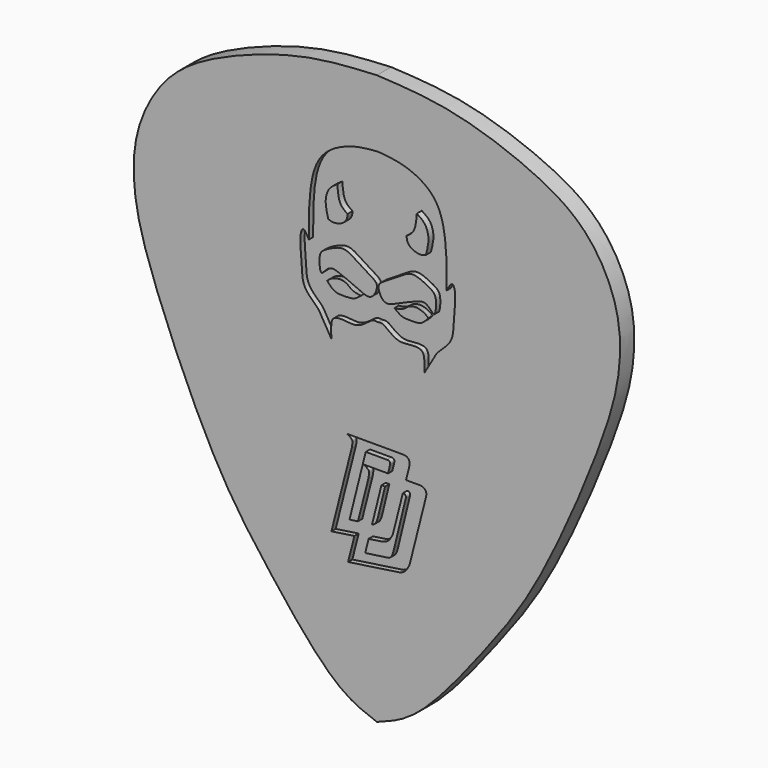
from build123d import *

# Parameters (mm, degrees)
F1_DEPTH      = 1
F3_DEPTH      = 1.0010001
F3_DEPTH_BACK = 0.2
F5_DEPTH      = 0.3
F7_DEPTH      = 0.35
F9_DEPTH      = 0.3
F11_DEPTH     = 0.1
F12_DEPTH     = 0.2
F13_DEPTH     = 0.7


with BuildPart() as f1:
    # F0 (on Front) → F1 (new body)
    with BuildSketch(Plane.XZ):
        with BuildLine():
            add(Edge.make_bspline(
                [(-31.5107270893, -10.9064727212), (-32.2026917269, -10.6557093193), (-33.9526112334, -10.0215500795), (-37.6876847294, -5.2704479403), (-40.6951073366, -1.2266223998), (-44.2603450301, 7.045510846), (-45.2461823302, 10.7550382715), (-45.2076523044, 14.0799642844), (-43.378113236, 17.5015502148), (-39.976243951, 19.4084566722), (-35.5394864317, 20.8901094743), (-32.8207065362, 21.0300839203), (-31.5107270893, 21.0975272788)],
                knots=[0, 0, 0, 0, 0.074230218, 0.1877218854, 0.2997178952, 0.440778318, 0.5345896143, 0.6183231272, 0.709077556, 0.8022549097, 0.9047212301, 1, 1, 1, 1], degree=3))
            add(Edge.make_bspline(
                [(-31.5107270893, -10.9064727212), (-30.8187624518, -10.6557093193), (-29.0688429452, -10.0215500795), (-25.3337694493, -5.2704479403), (-22.326346842, -1.2266223998), (-18.7611091486, 7.045510846), (-17.7752718485, 10.7550382715), (-17.8138018743, 14.0799642844), (-19.6433409427, 17.5015502148), (-23.0452102277, 19.4084566722), (-27.481967747, 20.8901094743), (-30.2007476424, 21.0300839203), (-31.5107270893, 21.0975272788)],
                knots=[0, 0, 0, 0, 0.074230218, 0.1877218854, 0.2997178952, 0.440778318, 0.5345896143, 0.6183231272, 0.709077556, 0.8022549097, 0.9047212301, 1, 1, 1, 1], degree=3))
        make_face()
        with BuildLine():
            add(Edge.make_bspline(
                [(-31.5107270893, -10.9064727212), (-32.2026917269, -10.6557093193), (-33.9526112334, -10.0215500795), (-37.6876847294, -5.2704479403), (-40.6951073366, -1.2266223998), (-44.2603450301, 7.045510846), (-45.2461823302, 10.7550382715), (-45.2076523044, 14.0799642844), (-43.378113236, 17.5015502148), (-39.976243951, 19.4084566722), (-35.5394864317, 20.8901094743), (-32.8207065362, 21.0300839203), (-31.5107270893, 21.0975272788)],
                knots=[0, 0, 0, 0, 0.074230218, 0.1877218854, 0.2997178952, 0.440778318, 0.5345896143, 0.6183231272, 0.709077556, 0.8022549097, 0.9047212301, 1, 1, 1, 1], degree=3))
            add(Edge.make_bspline(
                [(-31.5107270893, -10.9064727212), (-30.8187624518, -10.6557093193), (-29.0688429452, -10.0215500795), (-25.3337694493, -5.2704479403), (-22.326346842, -1.2266223998), (-18.7611091486, 7.045510846), (-17.7752718485, 10.7550382715), (-17.8138018743, 14.0799642844), (-19.6433409427, 17.5015502148), (-23.0452102277, 19.4084566722), (-27.481967747, 20.8901094743), (-30.2007476424, 21.0300839203), (-31.5107270893, 21.0975272788)],
                knots=[0, 0, 0, 0, 0.074230218, 0.1877218854, 0.2997178952, 0.440778318, 0.5345896143, 0.6183231272, 0.709077556, 0.8022549097, 0.9047212301, 1, 1, 1, 1], degree=3))
        make_face()
    extrude(amount=F1_DEPTH)

    # F2 (on Front) → F3 (cut, two sides)
    with BuildSketch(Plane.XZ) as f3_sk:
        with BuildLine():
            Line((-30.1403123885, 2.8078036848), (-33.166885376, 2.8078036848))
            add(Edge.make_bspline(
                [(-33.166885376, 2.8078036848), (-33.1041934866, 2.7664902189), (-32.9882651971, 2.6900943804), (-32.8546430289, 2.567837405), (-32.896368497, 2.3431784593), (-32.9214856023, 2.2079425361)],
                knots=[0, 0, 0, 0, 0.3191424416, 0.5901502981, 1, 1, 1, 1], degree=3))
            Line((-32.9214856023, 2.2079425361), (-34.0666770929, -2.3046489843))
            Line((-34.0666770929, -2.3046489843), (-32.773733564, -2.113785944))
            Line((-32.773733564, -2.113785944), (-33.1301353872, -3.5181762651))
            Line((-33.1301353872, -3.5181762651), (-30.2671603858, -3.0955467373))
            add(Edge.make_bspline(
                [(-30.2671603858, -3.0955467373), (-30.1562706705, -3.0651480628), (-29.9139577348, -2.9987217757), (-29.762874776, -2.7167725282), (-29.6809319407, -2.5638517691)],
                knots=[0, 0, 0, 0, 0.4576301924, 1, 1, 1, 1], degree=3))
            Line((-29.6809319407, -2.5638517691), (-28.740240261, 1.1580139399))
            add(Edge.make_bspline(
                [(-28.740240261, 1.1580139399), (-28.7323033868, 1.2206950005), (-28.7155680074, 1.3528618102), (-28.8604192433, 1.5880498146), (-29.082910422, 1.5920846321), (-29.2037706822, 1.5942764003)],
                knots=[0, 0, 0, 0, 0.291811554, 0.6153023218, 1, 1, 1, 1], degree=3))
            Line((-29.2037706822, 1.5942764003), (-29.8732335886, 1.5942764003))
            Line((-29.8732335886, 1.5942764003), (-29.6767819662, 2.3715412262))
            add(Edge.make_bspline(
                [(-29.6767819662, 2.3715412262), (-29.668845092, 2.4342222869), (-29.6521097121, 2.5663890969), (-29.7969609504, 2.8015770985), (-30.0194521282, 2.8056119166), (-30.1403123885, 2.8078036848)],
                knots=[0, 0, 0, 0, 0.2918115541, 0.6153023216, 1, 1, 1, 1], degree=3))
        make_face()
        with BuildLine():
            Line((-31.9756487837, -1.9959734609), (-31.2037020916, -1.8820194565))
            add(Edge.make_bspline(
                [(-31.2037020916, -1.8820194565), (-31.0928123762, -1.851620782), (-30.8504994408, -1.78519449), (-30.6994164841, -1.5032452411), (-30.6174736488, -1.350324482)],
                knots=[0, 0, 0, 0, 0.4576301925, 1, 1, 1, 1], degree=3))
            Line((-30.6174736488, -1.350324482), (-30.0514587387, 0.8891249817))
            add(Edge.make_bspline(
                [(-29.8831909895, 0.7052097353), (-29.8795830279, 0.7315048719), (-29.8718605175, 0.787787196), (-29.935913466, 0.8909252616), (-30.012810081, 0.8901752108), (-30.0514587387, 0.8891249817)],
                knots=[0, 0, 0, 0, 0.3012924122, 0.6448887337, 0.9866611474, 0.9866611474, 0.9866611474, 0.9866611474], degree=3))
            Line((-29.8831909895, 0.7052097353), (-30.5303931236, -1.9697365933))
            add(Edge.make_bspline(
                [(-30.9321247035, -2.583493657), (-30.8754652849, -2.5758042349), (-30.7477854025, -2.5584764038), (-30.6063600781, -2.3038353747), (-30.556881136, -2.0862295168), (-30.5303931236, -1.9697365933)],
                knots=[0, 0, 0, 0, 0.2704467327, 0.6094416107, 1, 1, 1, 1], degree=3))
            Line((-30.9321247035, -2.583493657), (-32.166410237, -2.7590209539))
            Line((-32.166410237, -2.7590209539), (-31.9756487837, -1.9959734609))
        make_face(mode=Mode.SUBTRACT)
        with BuildLine():
            add(Edge.make_bspline(
                [(-31.7797787864, -1.2124917465), (-31.7355277043, -1.2054706807), (-31.6235256269, -1.1779474162), (-31.4902783339, -0.9380312022), (-31.4407993916, -0.7204253452), (-31.4143113792, -0.6039324217)],
                knots=[0.0578257867, 0.0578257867, 0.0578257867, 0.0578257867, 0.2704467324, 0.6094416105, 1, 1, 1, 1], degree=3))
            Line((-31.7797787864, -1.2124917465), (-31.2544070178, 0.8889999552))
            Line((-31.2544070178, 0.8889999552), (-31.0530970198, 0.8889999552))
            Line((-31.0530970198, 0.8889999552), (-31.4143113792, -0.6039324217))
        make_face(mode=Mode.SUBTRACT)
        with BuildLine():
            Line((-30.8824556812, 1.5942764003), (-32.2303436697, 1.5942764003))
            add(Edge.make_bspline(
                [(-32.2303436697, 1.5942764003), (-32.1676517802, 1.5529629342), (-32.051723491, 1.476567096), (-31.9181013225, 1.3543101201), (-31.9598267913, 1.1296511781), (-31.9849438965, 0.9944152553)],
                knots=[0, 0, 0, 0, 0.3191424422, 0.5901502993, 1, 1, 1, 1], degree=3))
            Line((-31.9849438965, 0.9944152553), (-32.5736672796, -1.3254309606))
            Line((-32.5736672796, -1.3254309606), (-33.0503284931, -1.3932167785))
            Line((-33.0503284931, -1.3932167785), (-32.138325274, 2.2548041306))
            Line((-32.138325274, 2.2548041306), (-30.9399031103, 2.2548041306))
            add(Edge.make_bspline(
                [(-30.7671092433, 2.0710139029), (-30.7635012818, 2.0973090393), (-30.7557787713, 2.1535913639), (-30.8206976646, 2.2581237749), (-30.8997337812, 2.2559227696), (-30.9399031103, 2.2548041306)],
                knots=[0, 0, 0, 0, 0.3012924095, 0.6448887351, 1, 1, 1, 1], degree=3))
            Line((-30.7671092433, 2.0710139029), (-30.8824556812, 1.5942764003))
        make_face(mode=Mode.SUBTRACT)
    extrude(amount=F3_DEPTH, mode=Mode.SUBTRACT)
    extrude(f3_sk.sketch, amount=-F3_DEPTH_BACK, mode=Mode.SUBTRACT)

    # F4 (on face) → F5 (cut)
    with BuildSketch(Plane.XZ.offset(1)):
        with BuildLine():
            add(Edge.make_bspline(
                [(-34.0733453631, 7.2232033126), (-34.2841318525, 7.5808820909), (-34.6116883589, 8.1367052436), (-34.7708690533, 8.4498807496), (-35.1333627764, 8.7734307005), (-35.7222631444, 9.3659173405), (-35.7157305003, 10.4164020831), (-35.884108204, 11.7971543118), (-35.6320338135, 12.2798257626), (-35.4413194783, 11.922497383), (-35.3334024549, 11.7203006521)],
                knots=[0, 0, 0, 0, 0.1557577588, 0.2420433468, 0.3437625439, 0.4755518144, 0.6309304228, 0.8103919188, 0.892708958, 1, 1, 1, 1], degree=3))
            add(Edge.make_bspline(
                [(-34.0733453631, 7.2232033126), (-34.0832569896, 7.4695214967), (-34.100611173, 7.9007979317), (-33.98820969, 8.376154076), (-33.3136945, 8.3912597423), (-32.6582269007, 8.2694811101), (-32.1028507839, 8.6349740063), (-31.7432622693, 8.9406245741), (-31.545710957, 8.9100662096), (-31.4605310559, 8.8968900964)],
                knots=[0, 0, 0, 0, 0.1662210962, 0.2910351181, 0.4432523917, 0.6066189975, 0.7656877587, 0.8989695726, 1, 1, 1, 1], degree=3))
            add(Edge.make_bspline(
                [(-28.8477167487, 7.2232033126), (-28.8378051222, 7.4695214967), (-28.8204509388, 7.9007979317), (-28.9328524219, 8.376154076), (-29.6073676118, 8.3912597423), (-30.2628352111, 8.2694811101), (-30.8182113279, 8.6349740063), (-31.1777998425, 8.9406245741), (-31.3753511549, 8.9100662096), (-31.4605310559, 8.8968900964)],
                knots=[0, 0, 0, 0, 0.1662210962, 0.2910351181, 0.4432523917, 0.6066189975, 0.7656877587, 0.8989695726, 1, 1, 1, 1], degree=3))
            add(Edge.make_bspline(
                [(-28.8477167487, 7.2232033126), (-28.6369302594, 7.5808820909), (-28.309373753, 8.1367052436), (-28.1501930585, 8.4498807496), (-27.7876993355, 8.7734307005), (-27.1987989675, 9.3659173405), (-27.2053316116, 10.4164020831), (-27.0369539078, 11.7971543118), (-27.2890282983, 12.2798257626), (-27.4797426336, 11.922497383), (-27.587659657, 11.7203006521)],
                knots=[0, 0, 0, 0, 0.1557577588, 0.2420433468, 0.3437625439, 0.4755518144, 0.6309304228, 0.8103919188, 0.892708958, 1, 1, 1, 1], degree=3))
            add(Edge.make_bspline(
                [(-27.587659657, 11.7203006521), (-27.5832065403, 12.0708386171), (-27.5730044461, 12.8739213948), (-27.6642267776, 14.772465198), (-28.2558921824, 16.3518859633), (-29.9312303193, 17.2125511778), (-30.9621057908, 17.2959515792), (-31.4605310559, 17.3362754285)],
                knots=[0, 0, 0, 0, 0.169745366, 0.3888867787, 0.5920724139, 0.8027682093, 1, 1, 1, 1], degree=3))
            add(Edge.make_bspline(
                [(-35.3334024549, 11.7203006521), (-35.3378555716, 12.0708386171), (-35.3480576658, 12.8739213948), (-35.2568353342, 14.772465198), (-34.6651699295, 16.3518859633), (-32.9898317926, 17.2125511778), (-31.9589563211, 17.2959515792), (-31.4605310559, 17.3362754285)],
                knots=[0, 0, 0, 0, 0.169745366, 0.3888867787, 0.5920724139, 0.8027682093, 1, 1, 1, 1], degree=3))
        make_face()
    extrude(amount=-F5_DEPTH, mode=Mode.SUBTRACT)

    # F6 (on face) → F7 (join)
    with BuildSketch(Plane.XZ.offset(0.7)):
        with BuildLine():
            add(Edge.make_bspline(
                [(-29.8012197018, 13.7280719355), (-29.6504752527, 13.8301234946), (-29.3032354677, 14.0651992249), (-29.2546021871, 14.6717125349), (-29.2270816863, 15.0149250403)],
                knots=[0, 0, 0, 0, 0.4341220551, 1, 1, 1, 1], degree=3))
            add(Edge.make_bspline(
                [(-28.7123434246, 13.13413959), (-28.7837121183, 13.1002497321), (-28.951936037, 13.0203675823), (-29.4263759293, 13.0944418332), (-29.7757034677, 13.382353573), (-29.7930939298, 13.6179761995), (-29.8012197018, 13.7280719355)],
                knots=[0, 0, 0, 0, 0.2084883288, 0.4914300909, 0.762368414, 1, 1, 1, 1], degree=3))
            add(Edge.make_bspline(
                [(-29.2270816863, 15.0149250403), (-29.0678541256, 14.9138091895), (-28.7324850558, 14.700836456), (-28.4957801117, 13.9863147978), (-28.6372417257, 13.4296642795), (-28.7123434246, 13.13413959)],
                knots=[0, 0, 0, 0, 0.2977806796, 0.6271931134, 1, 1, 1, 1], degree=3))
        make_face()
        with BuildLine():
            add(Edge.make_bspline(
                [(-34.2087186873, 13.13413959), (-34.1373499935, 13.1002497321), (-33.9691260749, 13.0203675823), (-33.4946861826, 13.0944418332), (-33.1453586442, 13.382353573), (-33.127968182, 13.6179761995), (-33.1198424101, 13.7280719355)],
                knots=[0, 0, 0, 0, 0.2084883288, 0.4914300909, 0.762368414, 1, 1, 1, 1], degree=3))
            add(Edge.make_bspline(
                [(-33.1198424101, 13.7280719355), (-33.2705868592, 13.8301234946), (-33.6178266442, 14.0651992249), (-33.6664599247, 14.6717125349), (-33.6939804256, 15.0149250403)],
                knots=[0, 0, 0, 0, 0.4341220551, 1, 1, 1, 1], degree=3))
            add(Edge.make_bspline(
                [(-33.6939804256, 15.0149250403), (-33.8532079863, 14.9138091895), (-34.1885770561, 14.700836456), (-34.4252820002, 13.9863147978), (-34.2838203861, 13.4296642795), (-34.2087186873, 13.13413959)],
                knots=[0, 0, 0, 0, 0.2977806796, 0.6271931134, 1, 1, 1, 1], degree=3))
        make_face()
    extrude(amount=F7_DEPTH)

    # F8 (on face) → F9 (join)
    with BuildSketch(Plane.XZ.offset(0.7)):
        with BuildLine():
            add(Edge.make_bspline(
                [(-28.2973777503, 10.3112198412), (-28.3529802257, 10.3044019645), (-28.5398342111, 10.5420259995), (-28.8658034137, 10.7900835135), (-29.4241266147, 10.5822722031), (-30.2464882336, 10.2366001888), (-30.9105136896, 9.9103408424), (-31.231285775, 10.1064490103), (-31.4055023681, 10.4653837749), (-31.461812953, 10.8557677824), (-30.686638372, 11.2674135694), (-29.8355702538, 11.861158004), (-29.4288703215, 11.91349073), (-29.0245366198, 11.797841688), (-28.4447115164, 11.50076569), (-28.2401652897, 11.3054460928), (-28.1690260785, 10.9919506249), (-28.1901095189, 10.5403234614), (-28.250668564, 10.3169472386), (-28.2973777503, 10.3112198412)],
                knots=[0, 0, 0, 0, 0.0472583667, 0.100854399, 0.1636731958, 0.2470704875, 0.318327413, 0.3659323783, 0.4192208248, 0.4671198026, 0.5447590008, 0.6331988458, 0.6852559283, 0.7404006476, 0.8093042042, 0.8535913149, 0.9004883927, 0.9603003313, 1, 1, 1, 1], degree=3))
        make_face()
        with BuildLine():
            add(Edge.make_bspline(
                [(-34.6236843616, 10.3112198412), (-34.5680818862, 10.3044019645), (-34.3812279007, 10.5420259995), (-34.0552586982, 10.7900835135), (-33.4969354971, 10.5822722031), (-32.6745738783, 10.2366001888), (-32.0105484222, 9.9103408424), (-31.6897763369, 10.1064490103), (-31.5155597437, 10.4653837749), (-31.4592491588, 10.8557677824), (-32.2344237398, 11.2674135694), (-33.085491858, 11.861158004), (-33.4921917904, 11.91349073), (-33.8965254921, 11.797841688), (-34.4763505955, 11.50076569), (-34.6808968222, 11.3054460928), (-34.7520360333, 10.9919506249), (-34.730952593, 10.5403234614), (-34.6703935478, 10.3169472386), (-34.6236843616, 10.3112198412)],
                knots=[0, 0, 0, 0, 0.0472583667, 0.100854399, 0.1636731958, 0.2470704875, 0.318327413, 0.3659323783, 0.4192208248, 0.4671198026, 0.5447590008, 0.6331988458, 0.6852559283, 0.7404006476, 0.8093042042, 0.8535913149, 0.9004883927, 0.9603003313, 1, 1, 1, 1], degree=3))
        make_face()
    extrude(amount=F9_DEPTH)

    # F10 (on face) → F11 (join)
    with BuildSketch(Plane.XZ.offset(0.7)):
        with BuildLine():
            add(Edge.make_bspline(
                [(-34.3064554036, 10.0228767842), (-34.2495527202, 10.0731616591), (-34.1341188227, 10.1751705407), (-33.9113496394, 10.2746277072), (-33.5833080395, 10.353873046), (-33.2026368131, 10.2711890844), (-33.0205805762, 10.083001776), (-32.7449772521, 9.9359266814), (-32.5184952171, 9.9101997361), (-32.4010327458, 9.8968567327)],
                knots=[0, 0, 0, 0, 0.125115648, 0.2538120532, 0.4068756902, 0.5673726683, 0.7005757534, 0.8447068352, 1, 1, 1, 1], degree=3))
            add(Edge.make_bspline(
                [(-34.3064554036, 10.0228767842), (-34.2659457168, 9.9739718798), (-34.1827815452, 9.8735727855), (-34.0250818557, 9.7219423699), (-33.8149719534, 9.5870558678), (-33.4025558394, 9.5610653821), (-33.0277027911, 9.5808029266), (-32.758785852, 9.6133007831), (-32.5309005328, 9.7939232207), (-32.4010327458, 9.8968567327)],
                knots=[0, 0, 0, 0, 0.1146949989, 0.2354625608, 0.3637293885, 0.5310638461, 0.6916530959, 0.824278588, 1, 1, 1, 1], degree=3))
        make_face()
        with BuildLine():
            add(Edge.make_bspline(
                [(-28.6146067083, 10.0228767842), (-28.655116395, 9.9739718798), (-28.7382805666, 9.8735727855), (-28.8959802561, 9.7219423699), (-29.1060901585, 9.5870558678), (-29.5185062725, 9.5610653821), (-29.8933593207, 9.5808029266), (-30.1622762599, 9.6133007831), (-30.390161579, 9.7939232207), (-30.520029366, 9.8968567327)],
                knots=[0, 0, 0, 0, 0.1146949989, 0.2354625608, 0.3637293885, 0.5310638461, 0.6916530959, 0.824278588, 1, 1, 1, 1], degree=3))
            add(Edge.make_bspline(
                [(-28.6146067083, 10.0228767842), (-28.6715093916, 10.0731616591), (-28.7869432892, 10.1751705407), (-29.0097124725, 10.2746277072), (-29.3377540724, 10.353873046), (-29.7184252988, 10.2711890844), (-29.9004815356, 10.083001776), (-30.1760848597, 9.9359266814), (-30.4025668947, 9.9101997361), (-30.520029366, 9.8968567327)],
                knots=[0, 0, 0, 0, 0.125115648, 0.2538120532, 0.4068756902, 0.5673726683, 0.7005757534, 0.8447068352, 1, 1, 1, 1], degree=3))
        make_face()
    extrude(amount=F11_DEPTH)

    # F10 (on face) + F11_face (on face) → F12 (join)
    with BuildSketch(Plane.XZ.offset(0.7)):
        with BuildLine():
            add(Edge.make_bspline(
                [(-34.3064554036, 10.0228767842), (-34.2495527202, 10.0731616591), (-34.1341188227, 10.1751705407), (-33.9113496394, 10.2746277072), (-33.5833080395, 10.353873046), (-33.2026368131, 10.2711890844), (-33.0205805762, 10.083001776), (-32.7449772521, 9.9359266814), (-32.5184952171, 9.9101997361), (-32.4010327458, 9.8968567327)],
                knots=[0, 0, 0, 0, 0.125115648, 0.2538120532, 0.4068756902, 0.5673726683, 0.7005757534, 0.8447068352, 1, 1, 1, 1], degree=3))
            add(Edge.make_bspline(
                [(-34.3064554036, 10.0228767842), (-34.2659457168, 9.9739718798), (-34.1827815452, 9.8735727855), (-34.0250818557, 9.7219423699), (-33.8149719534, 9.5870558678), (-33.4025558394, 9.5610653821), (-33.0277027911, 9.5808029266), (-32.758785852, 9.6133007831), (-32.5309005328, 9.7939232207), (-32.4010327458, 9.8968567327)],
                knots=[0, 0, 0, 0, 0.1146949989, 0.2354625608, 0.3637293885, 0.5310638461, 0.6916530959, 0.824278588, 1, 1, 1, 1], degree=3))
        make_face()
        with BuildLine():
            add(Edge.make_bspline(
                [(-28.6146067083, 10.0228767842), (-28.655116395, 9.9739718798), (-28.7382805666, 9.8735727855), (-28.8959802561, 9.7219423699), (-29.1060901585, 9.5870558678), (-29.5185062725, 9.5610653821), (-29.8933593207, 9.5808029266), (-30.1622762599, 9.6133007831), (-30.390161579, 9.7939232207), (-30.520029366, 9.8968567327)],
                knots=[0, 0, 0, 0, 0.1146949989, 0.2354625608, 0.3637293885, 0.5310638461, 0.6916530959, 0.824278588, 1, 1, 1, 1], degree=3))
            add(Edge.make_bspline(
                [(-28.6146067083, 10.0228767842), (-28.6715093916, 10.0731616591), (-28.7869432892, 10.1751705407), (-29.0097124725, 10.2746277072), (-29.3377540724, 10.353873046), (-29.7184252988, 10.2711890844), (-29.9004815356, 10.083001776), (-30.1760848597, 9.9359266814), (-30.4025668947, 9.9101997361), (-30.520029366, 9.8968567327)],
                knots=[0, 0, 0, 0, 0.125115648, 0.2538120532, 0.4068756902, 0.5673726683, 0.7005757534, 0.8447068352, 1, 1, 1, 1], degree=3))
        make_face()
    with BuildSketch(Plane(origin=(-33.4422608471, -0.8, 9.9189074817), x_dir=(1, 0, 0), z_dir=(0, -1, 0))):
        with BuildLine():
            add(Edge.make_bspline(
                [(-0.8641945565, 0.1039693025), (-0.8072918731, 0.1542541773), (-0.6918579756, 0.256263059), (-0.4690887923, 0.3557202255), (-0.1410471924, 0.4349655643), (0.239624034, 0.3522816027), (0.4216802709, 0.1640942943), (0.697283595, 0.0170191996), (0.9237656299, -0.0087077456), (1.0412281012, -0.0220507491)],
                knots=[0, 0, 0, 0, 0.125115648, 0.2538120532, 0.4068756902, 0.5673726683, 0.7005757534, 0.8447068352, 1, 1, 1, 1], degree=3))
            add(Edge.make_bspline(
                [(-0.8641945565, 0.1039693025), (-0.8236848698, 0.0550643981), (-0.7405206981, -0.0453346963), (-0.5828210086, -0.1969651118), (-0.3727111063, -0.3318516139), (0.0397050077, -0.3578420997), (0.4145580559, -0.3381045551), (0.6834749951, -0.3056066986), (0.9113603143, -0.1249842611), (1.0412281012, -0.0220507491)],
                knots=[0, 0, 0, 0, 0.1146949989, 0.2354625608, 0.3637293885, 0.5310638461, 0.6916530959, 0.824278588, 1, 1, 1, 1], degree=3))
        make_face()
        with BuildLine():
            add(Edge.make_bspline(
                [(4.8276541388, 0.1039693025), (4.7871444521, 0.0550643981), (4.7039802804, -0.0453346963), (4.546280591, -0.1969651118), (4.3361706886, -0.3318516139), (3.9237545746, -0.3578420997), (3.5489015264, -0.3381045551), (3.2799845872, -0.3056066986), (3.052099268, -0.1249842611), (2.9222314811, -0.0220507491)],
                knots=[0, 0, 0, 0, 0.1146949989, 0.2354625608, 0.3637293885, 0.5310638461, 0.6916530959, 0.824278588, 1, 1, 1, 1], degree=3))
            add(Edge.make_bspline(
                [(4.8276541388, 0.1039693025), (4.7707514555, 0.1542541773), (4.6553175579, 0.256263059), (4.4325483746, 0.3557202255), (4.1045067747, 0.4349655643), (3.7238355483, 0.3522816027), (3.5417793115, 0.1640942943), (3.2661759873, 0.0170191996), (3.0396939524, -0.0087077456), (2.9222314811, -0.0220507491)],
                knots=[0, 0, 0, 0, 0.125115648, 0.2538120532, 0.4068756902, 0.5673726683, 0.7005757534, 0.8447068352, 1, 1, 1, 1], degree=3))
        make_face()
    extrude(amount=F12_DEPTH)


with BuildPart() as f13:
    # F2 (on Front) → F13 (new body)
    with BuildSketch(Plane.XZ):
        with BuildLine():
            Line((-30.1403123885, 2.8078036848), (-33.166885376, 2.8078036848))
            add(Edge.make_bspline(
                [(-33.166885376, 2.8078036848), (-33.1041934866, 2.7664902189), (-32.9882651971, 2.6900943804), (-32.8546430289, 2.567837405), (-32.896368497, 2.3431784593), (-32.9214856023, 2.2079425361)],
                knots=[0, 0, 0, 0, 0.3191424416, 0.5901502981, 1, 1, 1, 1], degree=3))
            Line((-32.9214856023, 2.2079425361), (-34.0666770929, -2.3046489843))
            Line((-34.0666770929, -2.3046489843), (-32.773733564, -2.113785944))
            Line((-32.773733564, -2.113785944), (-33.1301353872, -3.5181762651))
            Line((-33.1301353872, -3.5181762651), (-30.2671603858, -3.0955467373))
            add(Edge.make_bspline(
                [(-30.2671603858, -3.0955467373), (-30.1562706705, -3.0651480628), (-29.9139577348, -2.9987217757), (-29.762874776, -2.7167725282), (-29.6809319407, -2.5638517691)],
                knots=[0, 0, 0, 0, 0.4576301924, 1, 1, 1, 1], degree=3))
            Line((-29.6809319407, -2.5638517691), (-28.740240261, 1.1580139399))
            add(Edge.make_bspline(
                [(-28.740240261, 1.1580139399), (-28.7323033868, 1.2206950005), (-28.7155680074, 1.3528618102), (-28.8604192433, 1.5880498146), (-29.082910422, 1.5920846321), (-29.2037706822, 1.5942764003)],
                knots=[0, 0, 0, 0, 0.291811554, 0.6153023218, 1, 1, 1, 1], degree=3))
            Line((-29.2037706822, 1.5942764003), (-29.8732335886, 1.5942764003))
            Line((-29.8732335886, 1.5942764003), (-29.6767819662, 2.3715412262))
            add(Edge.make_bspline(
                [(-29.6767819662, 2.3715412262), (-29.668845092, 2.4342222869), (-29.6521097121, 2.5663890969), (-29.7969609504, 2.8015770985), (-30.0194521282, 2.8056119166), (-30.1403123885, 2.8078036848)],
                knots=[0, 0, 0, 0, 0.2918115541, 0.6153023216, 1, 1, 1, 1], degree=3))
        make_face()
        with BuildLine():
            Line((-31.9756487837, -1.9959734609), (-31.2037020916, -1.8820194565))
            add(Edge.make_bspline(
                [(-31.2037020916, -1.8820194565), (-31.0928123762, -1.851620782), (-30.8504994408, -1.78519449), (-30.6994164841, -1.5032452411), (-30.6174736488, -1.350324482)],
                knots=[0, 0, 0, 0, 0.4576301925, 1, 1, 1, 1], degree=3))
            Line((-30.6174736488, -1.350324482), (-30.0514587387, 0.8891249817))
            add(Edge.make_bspline(
                [(-29.8831909895, 0.7052097353), (-29.8795830279, 0.7315048719), (-29.8718605175, 0.787787196), (-29.935913466, 0.8909252616), (-30.012810081, 0.8901752108), (-30.0514587387, 0.8891249817)],
                knots=[0, 0, 0, 0, 0.3012924122, 0.6448887337, 0.9866611474, 0.9866611474, 0.9866611474, 0.9866611474], degree=3))
            Line((-29.8831909895, 0.7052097353), (-30.5303931236, -1.9697365933))
            add(Edge.make_bspline(
                [(-30.9321247035, -2.583493657), (-30.8754652849, -2.5758042349), (-30.7477854025, -2.5584764038), (-30.6063600781, -2.3038353747), (-30.556881136, -2.0862295168), (-30.5303931236, -1.9697365933)],
                knots=[0, 0, 0, 0, 0.2704467327, 0.6094416107, 1, 1, 1, 1], degree=3))
            Line((-30.9321247035, -2.583493657), (-32.166410237, -2.7590209539))
            Line((-32.166410237, -2.7590209539), (-31.9756487837, -1.9959734609))
        make_face(mode=Mode.SUBTRACT)
        with BuildLine():
            add(Edge.make_bspline(
                [(-31.7797787864, -1.2124917465), (-31.7355277043, -1.2054706807), (-31.6235256269, -1.1779474162), (-31.4902783339, -0.9380312022), (-31.4407993916, -0.7204253452), (-31.4143113792, -0.6039324217)],
                knots=[0.0578257867, 0.0578257867, 0.0578257867, 0.0578257867, 0.2704467324, 0.6094416105, 1, 1, 1, 1], degree=3))
            Line((-31.7797787864, -1.2124917465), (-31.2544070178, 0.8889999552))
            Line((-31.2544070178, 0.8889999552), (-31.0530970198, 0.8889999552))
            Line((-31.0530970198, 0.8889999552), (-31.4143113792, -0.6039324217))
        make_face(mode=Mode.SUBTRACT)
        with BuildLine():
            Line((-30.8824556812, 1.5942764003), (-32.2303436697, 1.5942764003))
            add(Edge.make_bspline(
                [(-32.2303436697, 1.5942764003), (-32.1676517802, 1.5529629342), (-32.051723491, 1.476567096), (-31.9181013225, 1.3543101201), (-31.9598267913, 1.1296511781), (-31.9849438965, 0.9944152553)],
                knots=[0, 0, 0, 0, 0.3191424422, 0.5901502993, 1, 1, 1, 1], degree=3))
            Line((-31.9849438965, 0.9944152553), (-32.5736672796, -1.3254309606))
            Line((-32.5736672796, -1.3254309606), (-33.0503284931, -1.3932167785))
            Line((-33.0503284931, -1.3932167785), (-32.138325274, 2.2548041306))
            Line((-32.138325274, 2.2548041306), (-30.9399031103, 2.2548041306))
            add(Edge.make_bspline(
                [(-30.7671092433, 2.0710139029), (-30.7635012818, 2.0973090393), (-30.7557787713, 2.1535913639), (-30.8206976646, 2.2581237749), (-30.8997337812, 2.2559227696), (-30.9399031103, 2.2548041306)],
                knots=[0, 0, 0, 0, 0.3012924095, 0.6448887351, 1, 1, 1, 1], degree=3))
            Line((-30.7671092433, 2.0710139029), (-30.8824556812, 1.5942764003))
        make_face(mode=Mode.SUBTRACT)
    extrude(amount=F13_DEPTH)


solid = Compound([f1.part, f13.part])
